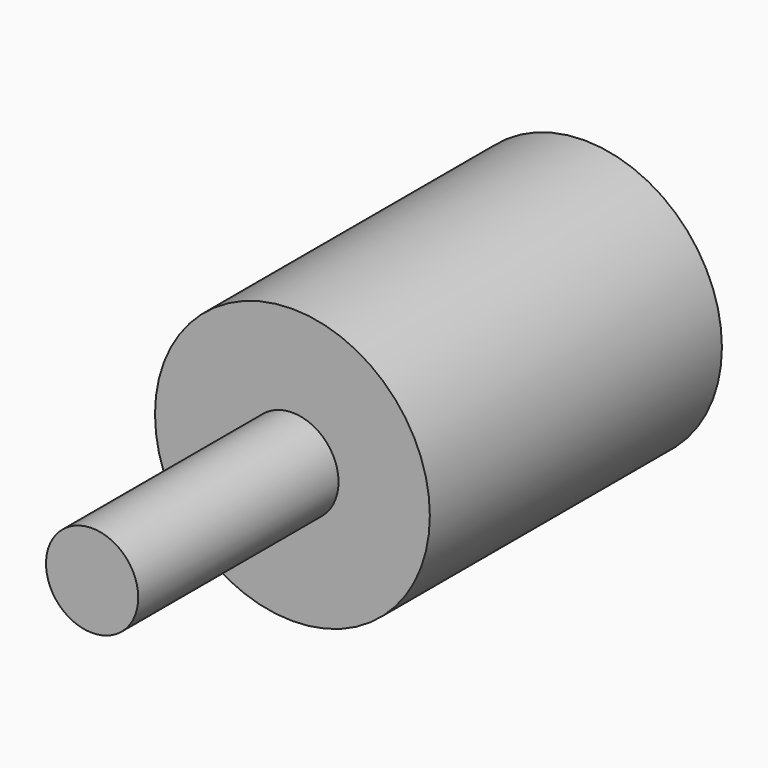
from build123d import *

# Parameters (mm, degrees)
F0_W     = 46.291791
F0_H     = 17.426752
F2_R     = 5.847576
F3_DEPTH = 31.75


with BuildPart() as f1:
    # F0 (on Right) → F1 (revolve)
    with BuildSketch(Plane.YZ):
        with Locations((9.164791, 20.950522)):
            Rectangle(F0_W, F0_H)
    revolve(axis=Axis((0, 9.164792, 12.237146), (0, -1, 0)))

    # F2 (on face) → F3 (join)
    with BuildSketch(Plane.XZ.offset(13.981104)):
        with Locations((0, 12.237146)):
            Circle(F2_R)
    extrude(amount=F3_DEPTH)


solid = f1.part
